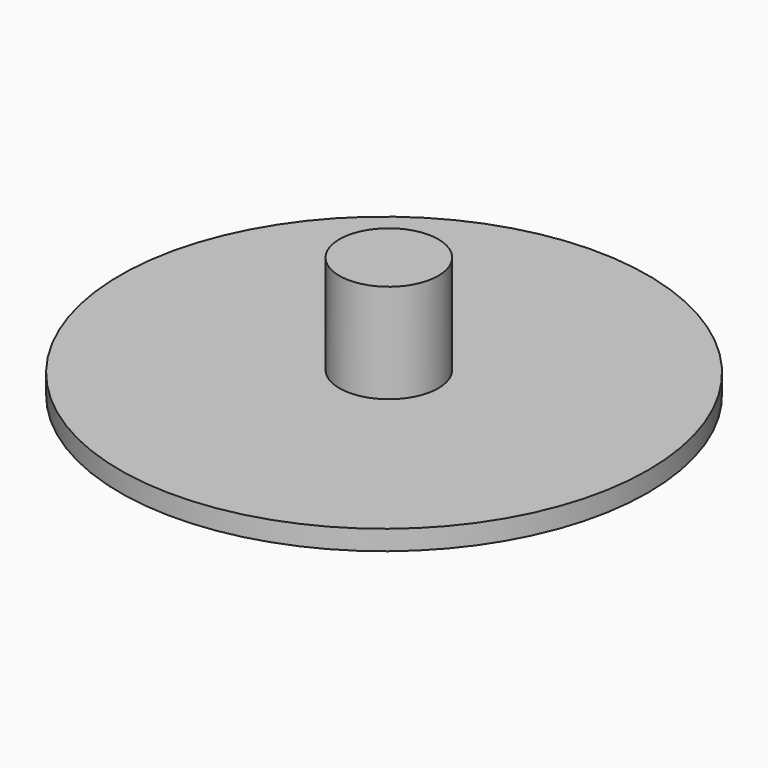
from build123d import *

# Parameters (mm, degrees)
F0_R     = 19.05
F1_DEPTH = 45.72
F0_R_2   = 101.6
F0_R_3   = 72.771
F2_DEPTH = 7.62


with BuildPart() as f1:
    # F0 (on Top) → F1 (new body)
    with BuildSketch(Plane.XY):
        with Locations((0, 2.297706)):
            Circle(F0_R)
    extrude(amount=F1_DEPTH)

    # F0 (on Top) → F2 (join)
    with BuildSketch(Plane.XY):
        Circle(F0_R_2)
        Circle(F0_R_3, mode=Mode.SUBTRACT)
        Circle(F0_R_3)
        with Locations((0, 2.297706)):
            Circle(F0_R, mode=Mode.SUBTRACT)
    extrude(amount=F2_DEPTH)


solid = f1.part
